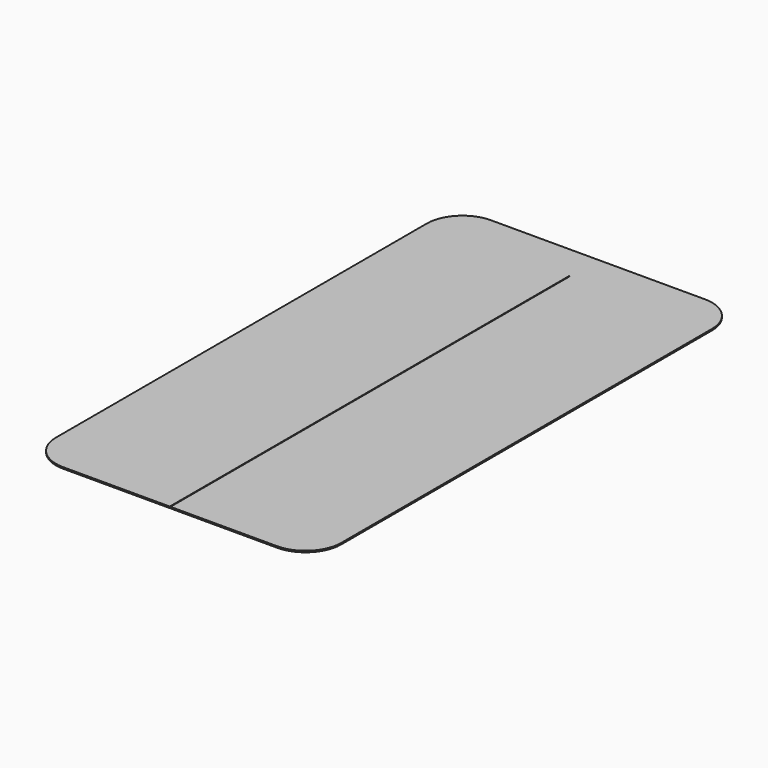
from build123d import *

# Parameters (mm, degrees)
F1_DEPTH = 0.2


with BuildPart() as f1:
    # F0 (on Top) → F1 (new body)
    with BuildSketch(Plane.XY):
        with BuildLine():
            ThreePointArc((20, 32.5), (18.535534, 36.035534), (15, 37.5))
            Line((15, 37.5), (-15, 37.5))
            ThreePointArc((-15, 37.5), (-18.535534, 36.035534), (-20, 32.5))
            Line((-20, 32.5), (-20, -32.5))
            ThreePointArc((-20, -32.5), (-18.535534, -36.035534), (-15, -37.5))
            Line((-15, -37.5), (-0.05, -37.5))
            Line((-0.05, -37.5), (-0.05, 32.5))
            Line((-0.05, 32.5), (0.05, 32.5))
            Line((0.05, 32.5), (0.05, -37.5))
            Line((0.05, -37.5), (15, -37.5))
            ThreePointArc((15, -37.5), (18.535534, -36.035534), (20, -32.5))
            Line((20, -32.5), (20, 32.5))
        make_face()
    extrude(amount=F1_DEPTH)


solid = f1.part
